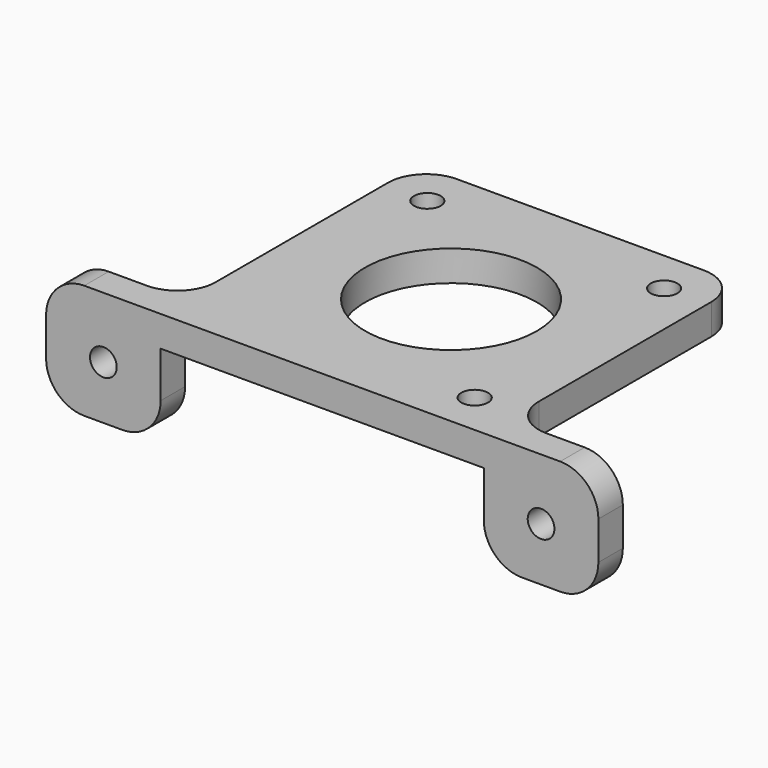
from build123d import *

# Parameters (mm, degrees)
F0_W     = 42.3
F0_H     = 42.2228726387
F0_R     = 1.75
F0_R_2   = 11.25
F1_DEPTH = 4
F2_W     = 15
F2_H     = 4
F3_DEPTH = 15
F4_R     = 5
F5_R     = 1.75
F6_DEPTH = 4


with BuildPart() as f1:
    # F0 (on Top) → F1 (new body)
    with BuildSketch(Plane.XY):
        with Locations((0, 0.0385636806)):
            Rectangle(F0_W, F0_H)
        with Locations((15.495, -15.495)):
            Circle(F0_R, mode=Mode.SUBTRACT)
        Circle(F0_R_2, mode=Mode.SUBTRACT)
        with Locations((-15.495, 15.495)):
            Circle(F0_R, mode=Mode.SUBTRACT)
        with Locations((15.495, 15.495)):
            Circle(F0_R, mode=Mode.SUBTRACT)
    extrude(amount=F1_DEPTH)

    # F2 (on face) → F3 (join)
    with BuildSketch(Plane.XY.offset(4)):
        with Locations((-28.65, -19.0728726387)):
            Rectangle(F2_W, F2_H)
        with Locations((28.65, -19.0728726387)):
            Rectangle(F2_W, F2_H)
    extrude(amount=-F3_DEPTH)

    # F4
    f4_edges = [f1.edges().sort_by_distance(p)[0] for p in [
        (21.15, 21.15, 2),
        (-21.15, 21.15, 2),
        (-21.15, -17.072873, 2),
        (21.15, -17.072873, 2),
        (36.15, -19.072873, 4),
        (-36.15, -19.072873, 4),
        (36.15, -19.072873, -11),
        (21.15, -19.072873, -11),
        (-21.15, -19.072873, -11),
        (-36.15, -19.072873, -11),
    ]]
    fillet(f4_edges, radius=F4_R)

    # F5 (on face) → F6 (cut, through all)
    with BuildSketch(Plane.XZ.offset(21.0728726387)):
        with Locations((-28.65, -4)):
            Circle(F5_R)
        with Locations((28.65, -4)):
            Circle(F5_R)
    extrude(amount=-F6_DEPTH, mode=Mode.SUBTRACT)


solid = f1.part
